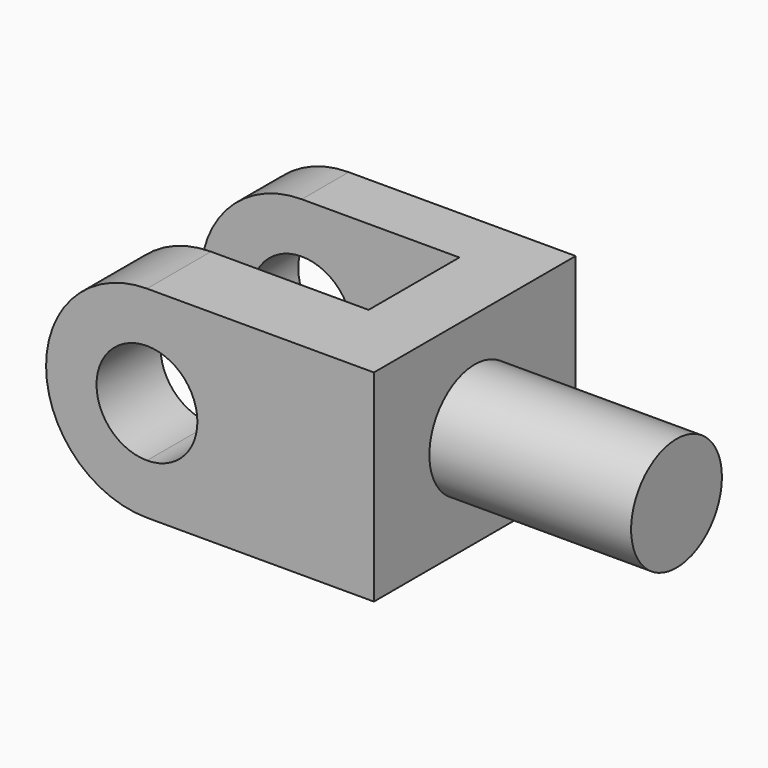
from build123d import *

# Parameters (mm, degrees)
F1_DEPTH = 1016
F2_W     = 406.4
F2_H     = 457.2
F2_W_2   = 635
F3_DEPTH = 812.801
F4_R     = 228.6
F5_DEPTH = 812.8


with BuildPart() as f1:
    # F0 (on Front) → F1 (new body)
    with BuildSketch(Plane.XZ):
        with BuildLine():
            Line((914.4, 70.892677), (0, 70.892677))
            Line((0, 70.892677), (0, -132.307323))
            ThreePointArc((0, -132.307323), (143.684098, -191.823225), (203.2, -335.507323))
            ThreePointArc((203.2, -335.507323), (143.684098, -479.191421), (0, -538.707323))
            Line((0, -538.707323), (0, -741.907323))
            Line((0, -741.907323), (914.4, -741.907323))
            Line((914.4, -741.907323), (914.4, 70.892677))
        make_face()
        with BuildLine():
            Line((0, -132.307323), (0, 70.892677))
            ThreePointArc((0, 70.892677), (-287.368196, -48.139127), (-406.4, -335.507323))
            ThreePointArc((-406.4, -335.507323), (-287.368196, -622.875519), (0, -741.907323))
            Line((0, -741.907323), (0, -538.707323))
            ThreePointArc((0, -538.707323), (-203.2, -335.507323), (0, -132.307323))
        make_face()
    extrude(amount=-F1_DEPTH)

    # F2 (on face) → F3 (cut, through all)
    with BuildSketch(Plane.XY.offset(70.892677)):
        with Locations((-203.2, 551.038588)):
            Rectangle(F2_W, F2_H)
        with Locations((317.5, 551.038588)):
            Rectangle(F2_W_2, F2_H)
    extrude(amount=-F3_DEPTH, mode=Mode.SUBTRACT)

    # F4 (on face) → F5 (join)
    with BuildSketch(Plane.YZ.offset(914.4)):
        with Locations((508, -335.507323)):
            Circle(F4_R)
    extrude(amount=F5_DEPTH)


solid = f1.part
